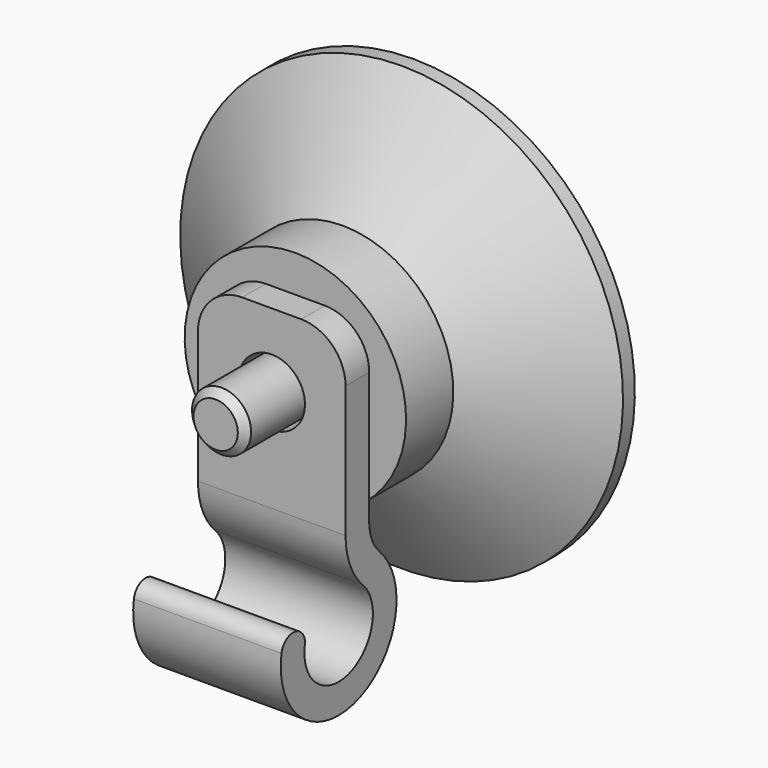
from build123d import *

# Parameters (mm, degrees)
F3_SIZE  = 0.5
F5_DEPTH = 5
F6_R     = 3
F8_D     = 4.5


with BuildPart() as f1:
    # F0 (on Right) → F1 (revolve)
    with BuildSketch(Plane.YZ):
        Polygon((3.5, 5), (3.5, 0), (4, 0), (4, 6), (10, 15), (9, 15), (4, 7.5), (0, 7.5), (0, 2), (2.5, 2), (2.5, 5), align=None)
    revolve(axis=Axis((0, -3.375, 0), (0, -1, 0)))


with BuildPart() as f2:
    # F0 (on Right) → F2 (revolve)
    with BuildSketch(Plane.YZ):
        Polygon((-6.75, 0), (0, 0), (3.5, 0), (3.5, 5), (2.5, 5), (2.5, 2), (0, 2), (-6.75, 2), align=None)
    revolve(axis=Axis((0, -3.375, 0), (0, -1, 0)))

    # F3
    f3_edges = [f2.edges().sort_by_distance(p)[0] for p in [
        (0, -6.75, -2),
    ]]
    chamfer(f3_edges, length=F3_SIZE)


with BuildPart() as f5:
    # F4 (on Right) → F5 (new body, symmetric)
    with BuildSketch(Plane.YZ):
        with BuildLine():
            Line((0, 5), (-2, 5))
            Line((-2, 5), (-2, -6.9289321881))
            ThreePointArc((-2, -6.9289321881), (-1.6193976626, -8.84234935), (-0.5355339059, -10.4644660941))
            ThreePointArc((-0.5355339059, -10.4644660941), (-1.6899942877, -15.2731396568), (-5.4504397591, -12.0614158109))
            ThreePointArc((-5.4504397591, -12.0614158109), (-6.2816936347, -10.9172930053), (-7.4258164403, -11.7485468808))
            ThreePointArc((-7.4258164403, -11.7485468808), (-1.0719602989, -17.1752526894), (0.8786796564, -9.0502525317))
            ThreePointArc((0.8786796564, -9.0502525317), (0.2283614025, -8.0769824852), (0, -6.9289321881))
            Line((0, -6.9289321881), (0, 5))
        make_face()
    extrude(amount=F5_DEPTH, both=True)

    # F6
    f6_edges = [f5.edges().sort_by_distance(p)[0] for p in [
        (-5, -1, 5),
        (5, -1, 5),
    ]]
    fillet(f6_edges, radius=F6_R)

    # F8 (through all)
    with Locations(Plane.XZ.offset(2)):
        with Locations((0, 0)):
            Hole(F8_D / 2)


solid = Compound([f1.part, f2.part, f5.part])
